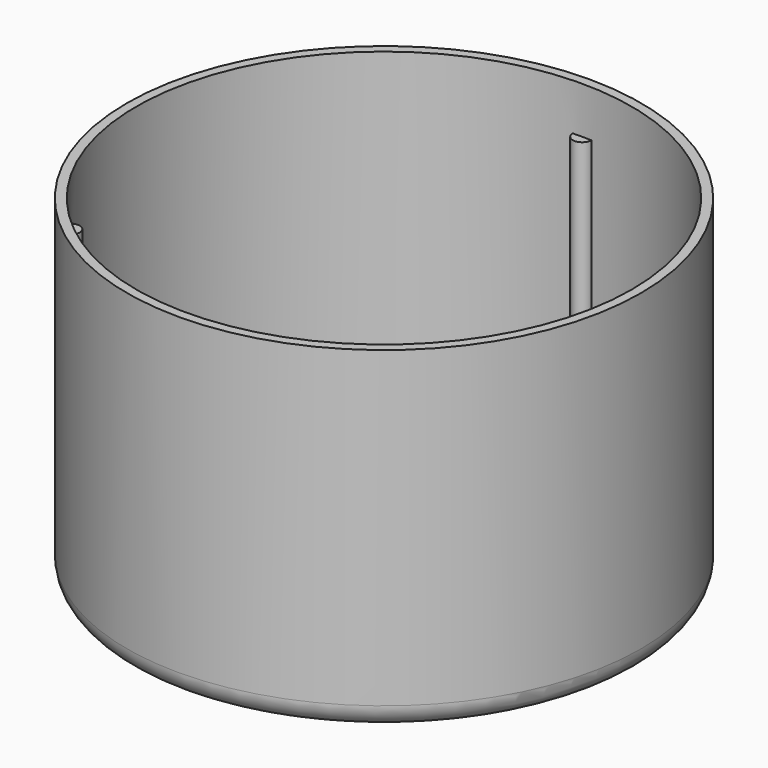
from build123d import *

# Parameters (mm, degrees)
F0_R     = 55
F0_R_2   = 45
F1_DEPTH = 2
F2_R     = 55
F2_R_2   = 53
F3_DEPTH = 70
F5_DEPTH = 60
F6_R     = 5


with BuildPart() as f1:
    # F0 (on Top) → F1 (new body)
    with BuildSketch(Plane.XY):
        Circle(F0_R)
        Circle(F0_R_2, mode=Mode.SUBTRACT)
        Circle(F0_R)
        Circle(F0_R_2, mode=Mode.SUBTRACT)
    extrude(amount=F1_DEPTH)

    # F2 (on face) → F3 (join)
    with BuildSketch(Plane.XY.offset(2)):
        Circle(F2_R)
        Circle(F2_R_2, mode=Mode.SUBTRACT)
    extrude(amount=F3_DEPTH)

    # F4 (on face) → F5 (join, through all)
    with BuildSketch(Plane.XY.offset(2)):
        with BuildLine():
            ThreePointArc((1.9996439697, 52.9622641509), (0, 53), (-1.9996439697, 52.9622641509))
            ThreePointArc((-1.9996439697, 52.9622641509), (0, 51), (1.9996439697, 52.9622641509))
        make_face()
        with BuildLine():
            ThreePointArc((44.8668442118, -28.2128745518), (45.8993464006, -26.5), (46.8664881815, -24.7493895992))
            ThreePointArc((46.8664881815, -24.7493895992), (44.167295593, -25.5), (44.8668442118, -28.2128745518))
        make_face()
        with BuildLine():
            ThreePointArc((-44.8668442118, -28.2128745518), (-44.167295593, -25.5), (-46.8664881815, -24.7493895992))
            ThreePointArc((-46.8664881815, -24.7493895992), (-45.8993464006, -26.5), (-44.8668442118, -28.2128745518))
        make_face()
    extrude(amount=F5_DEPTH)

    # F6
    f6_edges = [f1.edges().sort_by_distance(p)[0] for p in [
        (-55, 0, 0),
    ]]
    fillet(f6_edges, radius=F6_R)


solid = f1.part
